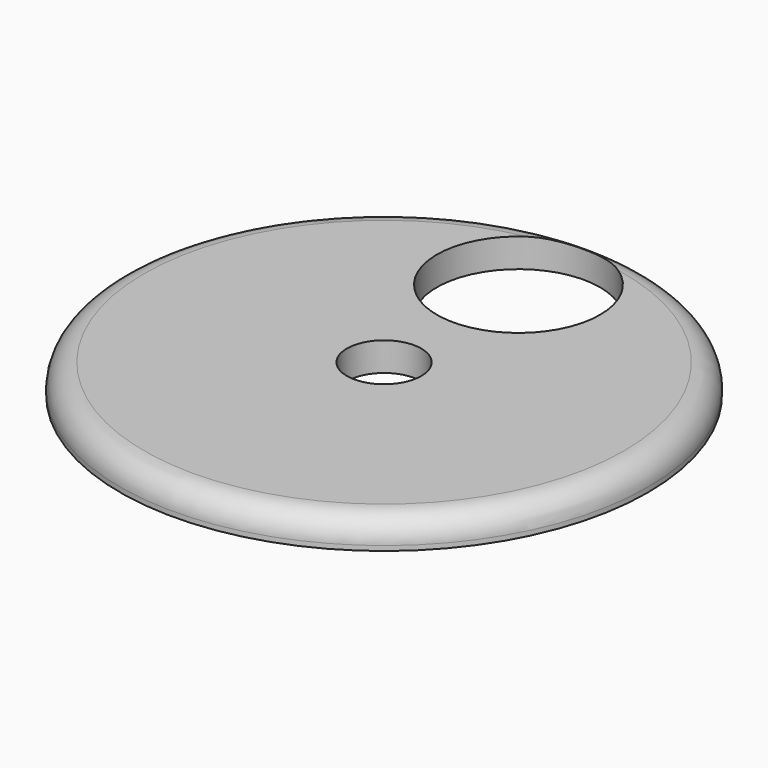
from build123d import *

# Parameters (mm, degrees)
F0_R     = 11
F1_DEPTH = 1.2
F2_R     = 1
F3_R     = 1.55
F3_R_2   = 3.4
F4_DEPTH = 25


with BuildPart() as f1:
    # F0 (on Top) → F1 (new body)
    with BuildSketch(Plane.XY):
        Circle(F0_R)
    extrude(amount=F1_DEPTH)

    # F2
    f2_edges = [f1.edges().sort_by_distance(p)[0] for p in [
        (-11, 0, 1.2),
    ]]
    fillet(f2_edges, radius=F2_R)

    # F3 (on face) → F4 (cut)
    with BuildSketch(Plane.XY.offset(1.2)):
        Circle(F3_R)
        with Locations((0, 7)):
            Circle(F3_R_2)
    extrude(amount=-F4_DEPTH, mode=Mode.SUBTRACT)


solid = f1.part
